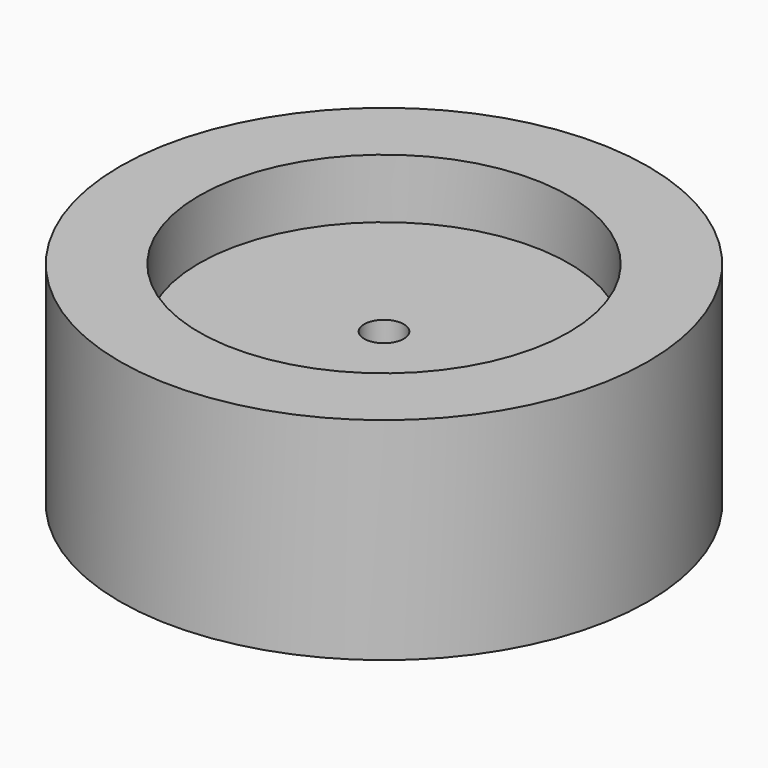
from build123d import *

# Parameters (mm, degrees)
F0_R     = 10
F1_DEPTH = 1.75
F2_R     = 0.75
F3_DEPTH = 10
F4_R     = 10
F4_R_2   = 7
F5_DEPTH = 4


with BuildPart() as f1:
    # F0 (on Top) → F1 (new body, symmetric)
    with BuildSketch(Plane.XY):
        Circle(F0_R)
    extrude(amount=F1_DEPTH, both=True)

    # F2 (on face) → F3 (cut, symmetric)
    with BuildSketch(Plane.XY.offset(1.75)):
        Circle(F2_R)
    extrude(amount=F3_DEPTH, both=True, mode=Mode.SUBTRACT)

    # F4 (on Top) → F5 (join, symmetric)
    with BuildSketch(Plane.XY):
        Circle(F4_R)
        Circle(F4_R_2, mode=Mode.SUBTRACT)
    extrude(amount=F5_DEPTH, both=True)


solid = f1.part
